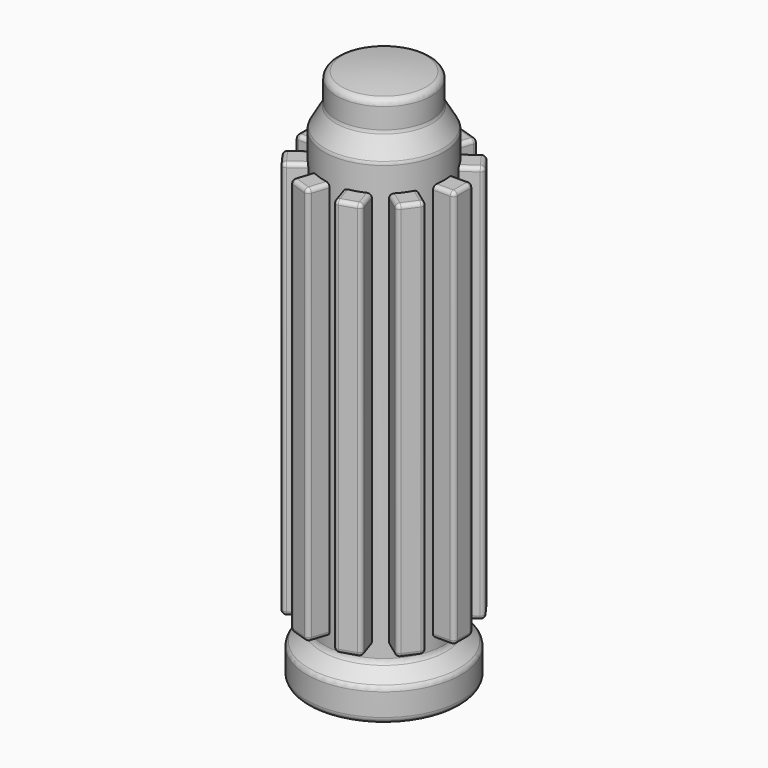
from build123d import *

# Parameters (mm, degrees)
F2_R     = 1.6
F4_W     = 6
F4_H     = 100
F6_R     = 1
F7_COUNT = 10


with BuildPart() as f1:
    # F0 (on Front) → F1 (revolve)
    with BuildSketch(Plane.XZ):
        with BuildLine():
            Line((10.75, 125), (10.75, 0))
            Line((10.75, 0), (19.325, 0))
            Line((19.325, 0), (19.325, 8))
            Line((19.325, 8), (15, 11.6291059048))
            Line((15, 11.6291059048), (15, 121.6291059048))
            Line((15, 121.6291059048), (11.8991128484, 127))
            Line((11.8991128484, 127), (11.8991128484, 133.9508111483))
            ThreePointArc((11.8991128484, 133.9508111483), (5.9726393626, 134.7371949452), (0, 135))
            Line((0, 135), (0, 125))
            Line((0, 125), (10.75, 125))
        make_face()
    revolve(axis=Axis((0, 0, 67.5), (0, 0, 1)))

    # F2
    f2_edges = [f1.edges().sort_by_distance(p)[0] for p in [
        (-19.325, 0, 0),
        (-19.325, 0, 8),
        (19.325, 0, 4),
        (-15, 0, 11.629106),
        (-15, 0, 121.629106),
        (-11.899113, 0, 127),
        (-11.899113, 0, 133.950811),
    ]]
    fillet(f2_edges, radius=F2_R)


with BuildPart() as f5:
    # F4 (on offset) → F5 (new body, up to the next surface of F1)
    with BuildSketch(Plane.YZ.offset(20)):
        with Locations((0, 65)):
            Rectangle(F4_W, F4_H)
    extrude(until=Until.NEXT, target=f1.part, dir=(-1, 0, 0))

    # F6
    f6_edges = [f5.edges().sort_by_distance(p)[0] for p in [
        (17.348469, -3, 15),
        (20, 0, 15),
        (17.348469, 3, 15),
        (20, 3, 65),
        (20, -3, 65),
        (17.348469, -3, 115),
        (20, 0, 115),
        (17.348469, 3, 115),
    ]]
    fillet(f6_edges, radius=F6_R)


with BuildPart() as f7_1:
    # F7: instance of F5
    add(f5.part.rotate(Axis((0, 0, 67.5), (0, 0, 1)), 1 * 360 / F7_COUNT))


with BuildPart() as f7_2:
    # F7: instance of F5
    add(f5.part.rotate(Axis((0, 0, 67.5), (0, 0, 1)), 2 * 360 / F7_COUNT))


with BuildPart() as f7_3:
    # F7: instance of F5
    add(f5.part.rotate(Axis((0, 0, 67.5), (0, 0, 1)), 3 * 360 / F7_COUNT))


with BuildPart() as f7_4:
    # F7: instance of F5
    add(f5.part.rotate(Axis((0, 0, 67.5), (0, 0, 1)), 4 * 360 / F7_COUNT))


with BuildPart() as f7_5:
    # F7: instance of F5
    add(f5.part.rotate(Axis((0, 0, 67.5), (0, 0, 1)), 5 * 360 / F7_COUNT))


with BuildPart() as f7_6:
    # F7: instance of F5
    add(f5.part.rotate(Axis((0, 0, 67.5), (0, 0, 1)), 6 * 360 / F7_COUNT))


with BuildPart() as f7_7:
    # F7: instance of F5
    add(f5.part.rotate(Axis((0, 0, 67.5), (0, 0, 1)), 7 * 360 / F7_COUNT))


with BuildPart() as f7_8:
    # F7: instance of F5
    add(f5.part.rotate(Axis((0, 0, 67.5), (0, 0, 1)), 8 * 360 / F7_COUNT))


with BuildPart() as f7_9:
    # F7: instance of F5
    add(f5.part.rotate(Axis((0, 0, 67.5), (0, 0, 1)), 9 * 360 / F7_COUNT))


solid = Compound([f1.part, f5.part, f7_1.part, f7_2.part, f7_3.part, f7_4.part, f7_5.part, f7_6.part, f7_7.part, f7_8.part, f7_9.part])
